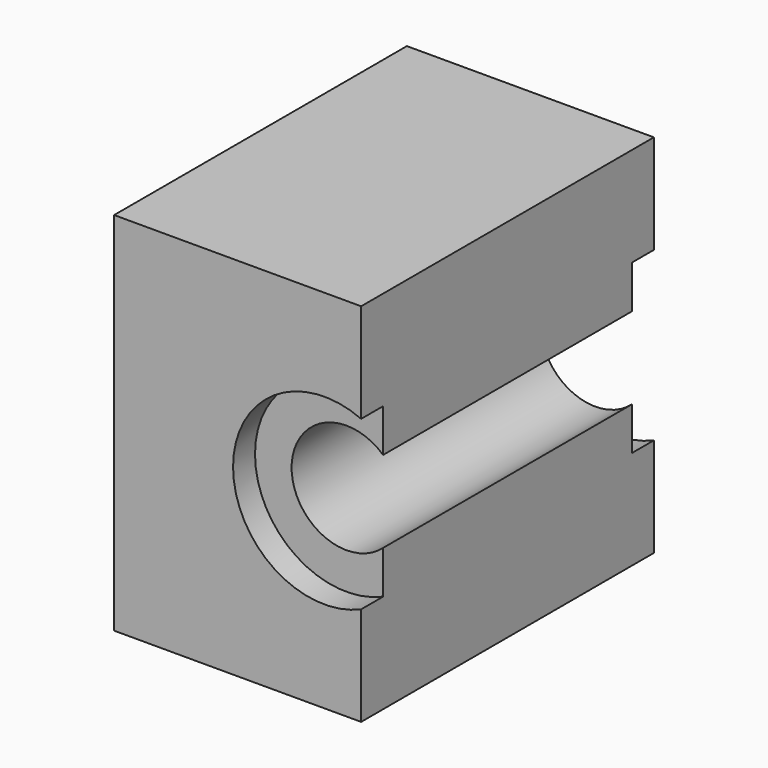
from build123d import *

# Parameters (mm, degrees)
F1_DEPTH      = 20
F1_DEPTH_BACK = 20
F2_R          = 10
F3_DEPTH      = 3
F4_R          = 10
F5_DEPTH      = 3


with BuildPart() as f1:
    # F0 (on Front) → F1 (new body, two sides)
    with BuildSketch(Plane.XZ) as f1_sk:
        with BuildLine():
            ThreePointArc((4, -4.472136), (-6, 0), (4, 4.472136))
            Line((4, 4.472136), (4, 20))
            Line((4, 20), (-23, 20))
            Line((-23, 20), (-23, -20))
            Line((-23, -20), (4, -20))
            Line((4, -20), (4, -4.472136))
        make_face()
    extrude(amount=F1_DEPTH)
    extrude(f1_sk.sketch, amount=-F1_DEPTH_BACK)

    # F2 (on face) → F3 (cut)
    with BuildSketch(Plane(origin=(0, 20, 0), x_dir=(-1, 0, 0), z_dir=(0, 1, 0))):
        Circle(F2_R)
    extrude(amount=-F3_DEPTH, mode=Mode.SUBTRACT)

    # F4 (on face) → F5 (cut)
    with BuildSketch(Plane.XZ.offset(20)):
        Circle(F4_R)
    extrude(amount=-F5_DEPTH, mode=Mode.SUBTRACT)


solid = f1.part
